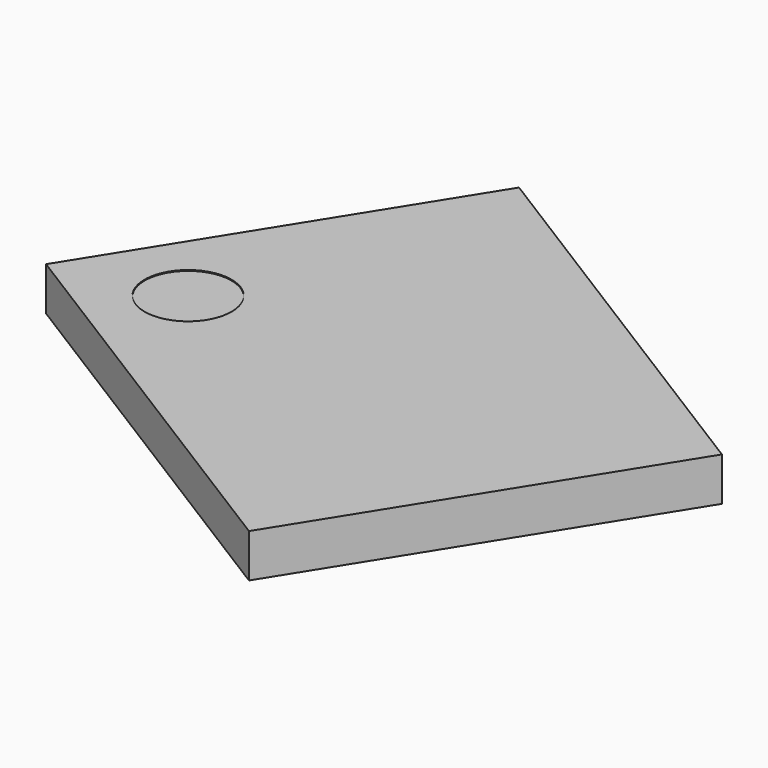
from build123d import *

# Parameters (mm, degrees)
CYLINDER083_R          = 0.5
CYLINDER083_DEPTH      = 0.01
BOX180_W               = 4.5
BOX180_H               = 5.5
BOX180_DEPTH           = 0.5
CUT089_PLACEMENT_ANGLE = 58


with BuildPart() as cylinder083:
    # Cylinder083 → Cylinder083 (new body)
    with BuildSketch(Plane(origin=(1, 4.5, 0.49), x_dir=(1, 0, 0), z_dir=(0, 0, 1))):
        Circle(CYLINDER083_R)
    extrude(amount=CYLINDER083_DEPTH)


with BuildPart() as obj1:
    # Box180 → Box180 (new body)
    with BuildSketch(Plane.XY):
        with Locations((2.25, 2.75)):
            Rectangle(BOX180_W, BOX180_H)
    extrude(amount=BOX180_DEPTH)

    # Cut089: cut Cylinder083
    add(cylinder083.part, mode=Mode.SUBTRACT)


with BuildPart() as obj1_1:
    # Cut089 placement: moved
    add(obj1.part.moved(Location((-7.397519, 16.08879, 3.34))).rotate(Axis((-7.397519, 16.08879, 3.34), (0, 0, 1)), CUT089_PLACEMENT_ANGLE))


solid = obj1_1.part
